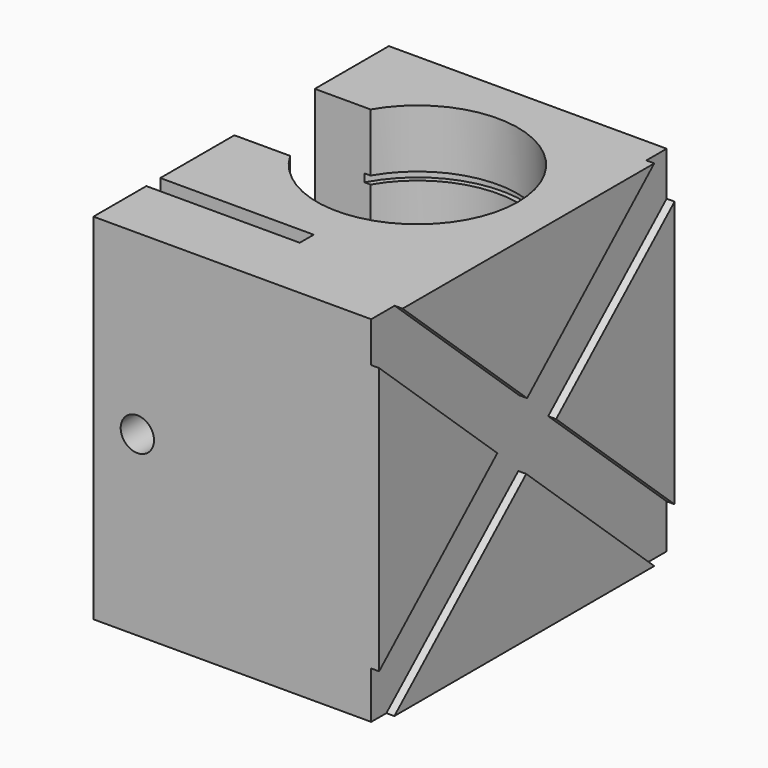
from build123d import *

# Parameters (mm, degrees)
F0_W      = 54
F0_H      = 67
F1_DEPTH  = 69.8
F2_W      = 29
F2_H      = 3.3
F3_DEPTH  = 100
F5_DEPTH  = 1.5
F6_R      = 3.15
F7_DEPTH  = 12.5
F9_R      = 20
F10_DEPTH = 1.5
F12_R     = 20
F13_DEPTH = 1.5


with BuildPart() as f1:
    # F0 (on Front) → F1 (new body)
    with BuildSketch(Plane.XZ):
        with Locations((27, 33.5)):
            Rectangle(F0_W, F0_H)
    extrude(amount=F1_DEPTH)

    # F2 (on face) → F3 (cut)
    with BuildSketch(Plane.XY.offset(67)):
        with BuildLine():
            Line((0, -36.5), (10.5455173281, -36.5))
            ThreePointArc((10.5455173281, -36.5), (46, -27), (10.5455173281, -17.5))
            Line((10.5455173281, -17.5), (0, -17.5))
            Line((0, -17.5), (0, -36.5))
        make_face()
        with Locations((14.5, -55.65)):
            Rectangle(F2_W, F2_H)
    extrude(amount=-F3_DEPTH, mode=Mode.SUBTRACT)

    # F4 (on face) → F5 (cut)
    with BuildSketch(Plane.YZ.offset(54)):
        Polygon((-69.8, 67), (-69.8, 59.3613030854), (-41.876951199, 33.8605559632), (-69.8, 8.9028859511), (-69.8, 0), (-66.2085348753, 0), (-35.0458744522, 27.6220695453), (-4.8, 0), (0, 0), (0, 8.3138438763), (-27.9903035886, 33.8760114883), (0, 58.6861561237), (0, 67), (-4.8, 67), (-34.8503444482, 40.1409494059), (-64.2607212067, 67), align=None)
    extrude(amount=-F5_DEPTH, mode=Mode.SUBTRACT)

    # F6 (on face) → F7 (cut)
    with BuildSketch(Plane.XZ.offset(69.8)):
        with Locations((8.3, 33.5)):
            Circle(F6_R)
    extrude(amount=-F7_DEPTH, mode=Mode.SUBTRACT)

    # F9 (on offset) → F10 (cut)
    with BuildSketch(Plane.XY.offset(54.5)):
        with Locations((27, -27)):
            Circle(F9_R)
    extrude(amount=F10_DEPTH, mode=Mode.SUBTRACT)

    # F12 (on offset) → F13 (cut)
    with BuildSketch(Plane(origin=(0, 0, 12.5), x_dir=(1, 0, 0), z_dir=(0, 0, -1))):
        with Locations((27, 27)):
            Circle(F12_R)
    extrude(amount=-F13_DEPTH, mode=Mode.SUBTRACT)


solid = f1.part
